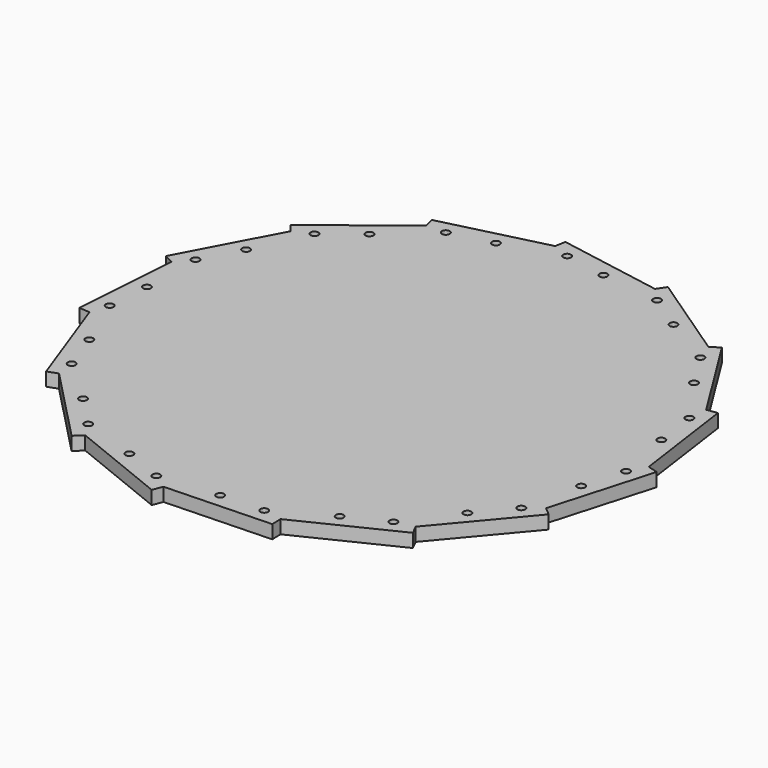
from build123d import *

# Parameters (mm, degrees)
F0_R     = 1.45
F1_DEPTH = 5


with BuildPart() as f1:
    # F0 (on Top) → F1 (new body)
    with BuildSketch(Plane.XY):
        Polygon((-12.834746, 94.429118), (-51.091734, 84.890579), (-50.132906, 81.04493), (-81.202731, 56.770523), (-78.762632, 53.647338), (-97.273038, 18.834327), (-93.773582, 16.973634), (-96.523953, -22.358495), (-92.570229, -22.634966), (-79.084999, -59.68533), (-75.360642, -58.329775), (-47.971531, -86.692029), (-45.120515, -83.938835), (-8.563349, -98.708889), (-7.078642, -95.034109), (32.325513, -93.658085), (32.187193, -89.697121), (67.625001, -72.412948), (65.88757, -68.850687), (91.231512, -38.646953), (88.195388, -36.099343), (99.063265, 1.80145), (95.253422, 2.893905), (89.76608, 41.938367), (85.841273, 41.386771), (64.947525, 74.823758), (61.586389, 72.723488), (28.898952, 94.771443), (26.682659, 91.485653), (-12.146512, 98.332284), align=None)
        with Locations((-48.877771, -77.83603)):
            Circle(F0_R, mode=Mode.SUBTRACT)
        with Locations((-76.310831, -51.226371)):
            Circle(F0_R, mode=Mode.SUBTRACT)
        with Locations((-59.992305, -66.326593)):
            Circle(F0_R, mode=Mode.SUBTRACT)
        with Locations((-27.828242, -84.993426)):
            Circle(F0_R, mode=Mode.SUBTRACT)
        with Locations((-12.9933, -90.987132)):
            Circle(F0_R, mode=Mode.SUBTRACT)
        with Locations((-81.783153, -36.191289)):
            Circle(F0_R, mode=Mode.SUBTRACT)
        with Locations((-90.549055, -15.759207)):
            Circle(F0_R, mode=Mode.SUBTRACT)
        with Locations((9.147577, -88.964124)):
            Circle(F0_R, mode=Mode.SUBTRACT)
        with Locations((25.13783, -88.405732)):
            Circle(F0_R, mode=Mode.SUBTRACT)
        with Locations((44.541697, -77.552117)):
            Circle(F0_R, mode=Mode.SUBTRACT)
        with Locations((58.922401, -70.538178)):
            Circle(F0_R, mode=Mode.SUBTRACT)
        with Locations((72.234152, -52.730644)):
            Circle(F0_R, mode=Mode.SUBTRACT)
        with Locations((82.518754, -40.473933)):
            Circle(F0_R, mode=Mode.SUBTRACT)
        with Locations((87.436667, -18.791563)):
            Circle(F0_R, mode=Mode.SUBTRACT)
        with Locations((91.846865, -3.411376)):
            Circle(F0_R, mode=Mode.SUBTRACT)
        with Locations((-89.432952, 0.201818)):
            Circle(F0_R, mode=Mode.SUBTRACT)
        with Locations((-89.130525, 22.432867)):
            Circle(F0_R, mode=Mode.SUBTRACT)
        with Locations((-81.61898, 36.560028)):
            Circle(F0_R, mode=Mode.SUBTRACT)
        with Locations((-72.300518, 56.746094)):
            Circle(F0_R, mode=Mode.SUBTRACT)
        with Locations((-59.692346, 66.596677)):
            Circle(F0_R, mode=Mode.SUBTRACT)
        with Locations((-42.969094, 81.247406)):
            Circle(F0_R, mode=Mode.SUBTRACT)
        with Locations((-27.444362, 85.118156)):
            Circle(F0_R, mode=Mode.SUBTRACT)
        with Locations((-6.207923, 91.700304)):
            Circle(F0_R, mode=Mode.SUBTRACT)
        with Locations((87.520587, 18.396749)):
            Circle(F0_R, mode=Mode.SUBTRACT)
        with Locations((85.293818, 34.241038)):
            Circle(F0_R, mode=Mode.SUBTRACT)
        with Locations((9.549001, 88.921933)):
            Circle(F0_R, mode=Mode.SUBTRACT)
        with Locations((44.891255, 77.350299)):
            Circle(F0_R, mode=Mode.SUBTRACT)
        with Locations((31.626654, 86.297386)):
            Circle(F0_R, mode=Mode.SUBTRACT)
        with Locations((72.471403, 52.404096)):
            Circle(F0_R, mode=Mode.SUBTRACT)
        with Locations((63.992695, 65.972866)):
            Circle(F0_R, mode=Mode.SUBTRACT)
    extrude(amount=F1_DEPTH)


solid = f1.part
